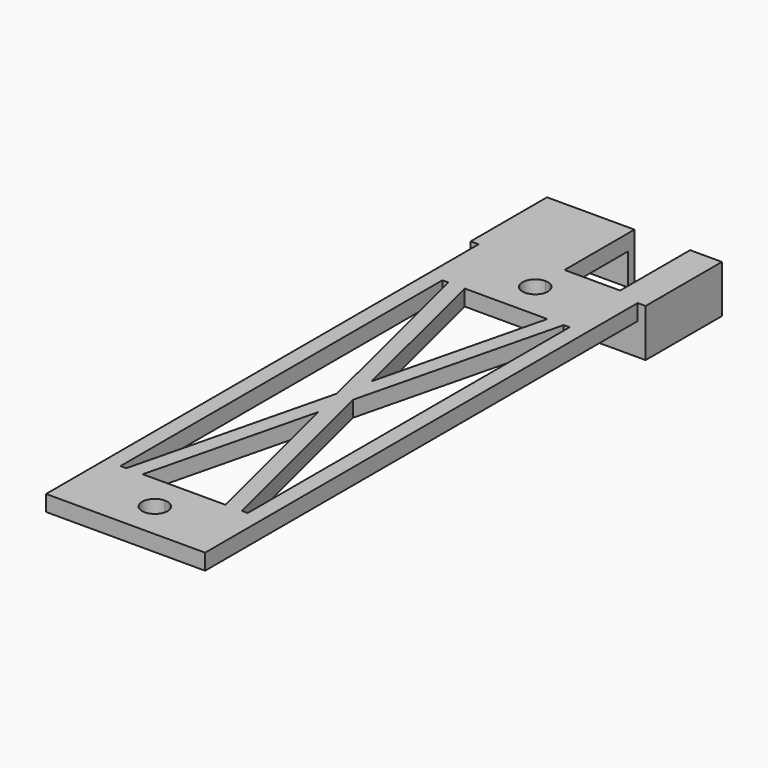
from build123d import *

# Parameters (mm, degrees)
F0_W     = 10
F0_H     = 1
F0_W_2   = 3
F0_H_2   = 10
F1_DEPTH = 2
F2_DEPTH = 4


with BuildPart() as f1:
    # F0 (on Top) → F1 (new body)
    with BuildSketch(Plane.XY):
        with Locations((-11.9701496633, 32.1035342552)):
            Rectangle(F0_W, F0_H)
        with Locations((1.5298503367, 32.1035342552)):
            Rectangle(F0_W_2, F0_H)
        Polygon((-16.9701496633, 31.6035342552), (-16.9701496633, 32.6035342552), (-17.9701496633, 32.6035342552), (-17.9701496633, 20.6035342552), (-16.9701496633, 20.6035342552), (-16.9701496633, 21.6035342552), align=None)
        Polygon((4.0298503367, 32.6035342552), (3.0298503367, 32.6035342552), (3.0298503367, 31.6035342552), (3.0298503367, 21.6035342552), (3.0298503367, 20.6035342552), (4.0298503367, 20.6035342552), align=None)
        Polygon((-6.9701496633, 20.6035342552), (-16.9701496633, 20.6035342552), (-16.9701496633, -47.3964657448), (-6.9701496633, -47.3964657448), (-6.9701496633, -45.3964657448), (-13.9402993266, -45.3964657448), (-14.9701496633, -45.3964657448), (-14.9701496633, -41.212698752), (-14.9701496633, -38.1964657448), (-14.9701496633, 12.4035342552), (-14.9701496633, 15.4197672624), (-14.9701496633, 19.6035342552), (-13.9402993266, 19.6035342552), (-6.9701496633, 19.6035342552), align=None)
        Polygon((3.0298503367, 20.6035342552), (-6.9701496633, 20.6035342552), (-6.9701496633, 19.6035342552), (0, 19.6035342552), (1.0298503367, 19.6035342552), (1.0298503367, 15.4197672624), (1.0298503367, 12.4035342552), (1.0298503367, -38.1964657448), (1.0298503367, -41.212698752), (1.0298503367, -45.3964657448), (0, -45.3964657448), (-6.9701496633, -45.3964657448), (-6.9701496633, -47.3964657448), (3.0298503367, -47.3964657448), align=None)
        with Locations((-11.9701496633, 21.1035342552)):
            Rectangle(F0_W, F0_H)
        Polygon((0.0298503367, 21.6035342552), (-6.9701496633, 21.6035342552), (-6.9701496633, 20.6035342552), (3.0298503367, 20.6035342552), (3.0298503367, 21.6035342552), align=None)
        with Locations((-11.9701496633, 26.6035342552)):
            Rectangle(F0_W, F0_H_2)
        with Locations((1.5298503367, 26.6035342552)):
            Rectangle(F0_W_2, F0_H_2)
        Polygon((-13.197841971, 12.4035342552), (-14.9701496633, 19.6035342552), (-14.9701496633, 15.4197672624), (-14.2276923077, 12.4035342552), align=None)
        Polygon((-12.1679916343, 12.4035342552), (-13.9402993266, 19.6035342552), (-14.9701496633, 19.6035342552), (-13.197841971, 12.4035342552), align=None)
        Polygon((1.0298503367, 19.6035342552), (0, 19.6035342552), (-1.7723076923, 12.4035342552), (-0.7424573556, 12.4035342552), align=None)
        Polygon((0.2873929811, 12.4035342552), (-0.7424573556, 12.4035342552), (-6.455224495, -10.8045822484), (-5.9402993266, -12.8964657448), align=None)
        Polygon((-14.2276923077, -38.1964657448), (-13.197841971, -38.1964657448), (-7.4850748317, -14.9883492412), (-8, -12.8964657448), align=None)
        Polygon((-14.9701496633, -45.3964657448), (-13.9402993266, -45.3964657448), (-12.1679916343, -38.1964657448), (-13.197841971, -38.1964657448), align=None)
        Polygon((-7.4850748317, -14.9883492412), (-6.9701496633, -12.8964657448), (-7.4850748317, -10.8045822484), (-8, -12.8964657448), align=None)
        Polygon((-6.9701496633, -17.0802327376), (-6.9701496633, -12.8964657448), (-7.4850748317, -14.9883492412), align=None)
        Polygon((-5.9402993266, -12.8964657448), (-6.455224495, -10.8045822484), (-6.9701496633, -12.8964657448), (-6.455224495, -14.9883492412), align=None)
        Polygon((-6.455224495, -10.8045822484), (-6.9701496633, -8.712698752), (-6.9701496633, -12.8964657448), align=None)
        Polygon((-6.455224495, -14.9883492412), (-6.9701496633, -12.8964657448), (-6.9701496633, -17.0802327376), align=None)
        Polygon((-6.9701496633, -12.8964657448), (-6.9701496633, -8.712698752), (-7.4850748317, -10.8045822484), align=None)
        Polygon((-0.7424573556, -38.1964657448), (1.0298503367, -45.3964657448), (1.0298503367, -41.212698752), (0.2873929811, -38.1964657448), align=None)
        Polygon((-1.7723076923, -38.1964657448), (0, -45.3964657448), (1.0298503367, -45.3964657448), (-0.7424573556, -38.1964657448), align=None)
        Polygon((1.0298503367, 15.4197672624), (1.0298503367, 19.6035342552), (-0.7424573556, 12.4035342552), (0.2873929811, 12.4035342552), align=None)
        Polygon((-7.4850748317, -10.8045822484), (-13.197841971, 12.4035342552), (-14.2276923077, 12.4035342552), (-8, -12.8964657448), align=None)
        Polygon((-6.9701496633, -8.712698752), (-12.1679916343, 12.4035342552), (-13.197841971, 12.4035342552), (-7.4850748317, -10.8045822484), align=None)
        Polygon((-0.7424573556, 12.4035342552), (-1.7723076923, 12.4035342552), (-6.9701496633, -8.712698752), (-6.455224495, -10.8045822484), align=None)
        with BuildLine():
            Line((0, 19.6035342552), (-6.9701496633, 19.6035342552))
            Line((-6.9701496633, 19.6035342552), (-6.9701496633, 18.6035342552))
            ThreePointArc((-6.9701496633, 18.6035342552), (-5.8387788134, 18.1349051051), (-5.3701496633, 17.0035342552))
            ThreePointArc((-5.3701496633, 17.0035342552), (-5.8387788134, 15.8721634053), (-6.9701496633, 15.4035342552))
            Line((-6.9701496633, 15.4035342552), (-6.9701496633, 12.4035342552))
            Line((-6.9701496633, 12.4035342552), (-1.7723076923, 12.4035342552))
            Line((-1.7723076923, 12.4035342552), (0, 19.6035342552))
        make_face()
        with BuildLine():
            Line((-6.9701496633, 18.6035342552), (-6.9701496633, 19.6035342552))
            Line((-6.9701496633, 19.6035342552), (-13.9402993266, 19.6035342552))
            Line((-13.9402993266, 19.6035342552), (-12.1679916343, 12.4035342552))
            Line((-12.1679916343, 12.4035342552), (-6.9701496633, 12.4035342552))
            Line((-6.9701496633, 12.4035342552), (-6.9701496633, 15.4035342552))
            ThreePointArc((-6.9701496633, 15.4035342552), (-8.5701496633, 17.0035342552), (-6.9701496633, 18.6035342552))
        make_face()
        Polygon((-14.2276923077, 12.4035342552), (-14.9701496633, 15.4197672624), (-14.9701496633, 12.4035342552), align=None)
        Polygon((1.0298503367, 12.4035342552), (1.0298503367, 15.4197672624), (0.2873929811, 12.4035342552), align=None)
        Polygon((-14.9701496633, -41.212698752), (-14.9701496633, -45.3964657448), (-13.197841971, -38.1964657448), (-14.2276923077, -38.1964657448), align=None)
        Polygon((-13.197841971, -38.1964657448), (-12.1679916343, -38.1964657448), (-6.9701496633, -17.0802327376), (-7.4850748317, -14.9883492412), align=None)
        Polygon((-6.455224495, -14.9883492412), (-0.7424573556, -38.1964657448), (0.2873929811, -38.1964657448), (-5.9402993266, -12.8964657448), align=None)
        Polygon((-6.9701496633, -17.0802327376), (-1.7723076923, -38.1964657448), (-0.7424573556, -38.1964657448), (-6.455224495, -14.9883492412), align=None)
        with BuildLine():
            Line((-6.9701496633, -44.3964657448), (-6.9701496633, -45.3964657448))
            Line((-6.9701496633, -45.3964657448), (0, -45.3964657448))
            Line((0, -45.3964657448), (-1.7723076923, -38.1964657448))
            Line((-1.7723076923, -38.1964657448), (-6.9701496633, -38.1964657448))
            Line((-6.9701496633, -38.1964657448), (-6.9701496633, -41.1964657448))
            ThreePointArc((-6.9701496633, -41.1964657448), (-5.8387788134, -41.6650948949), (-5.3701496633, -42.7964657448))
            ThreePointArc((-5.3701496633, -42.7964657448), (-5.8387788134, -43.9278365947), (-6.9701496633, -44.3964657448))
        make_face()
        Polygon((0.2873929811, -38.1964657448), (1.0298503367, -41.212698752), (1.0298503367, -38.1964657448), align=None)
        with BuildLine():
            Line((-13.9402993266, -45.3964657448), (-6.9701496633, -45.3964657448))
            Line((-6.9701496633, -45.3964657448), (-6.9701496633, -44.3964657448))
            ThreePointArc((-6.9701496633, -44.3964657448), (-8.5701496633, -42.7964657448), (-6.9701496633, -41.1964657448))
            Line((-6.9701496633, -41.1964657448), (-6.9701496633, -38.1964657448))
            Line((-6.9701496633, -38.1964657448), (-12.1679916343, -38.1964657448))
            Line((-12.1679916343, -38.1964657448), (-13.9402993266, -45.3964657448))
        make_face()
        Polygon((-14.9701496633, -38.1964657448), (-14.9701496633, -41.212698752), (-14.2276923077, -38.1964657448), align=None)
    extrude(amount=F1_DEPTH)

    # F0 (on Top) → F2 (join)
    with BuildSketch(Plane.XY):
        Polygon((4.0298503367, 32.6035342552), (3.0298503367, 32.6035342552), (3.0298503367, 31.6035342552), (3.0298503367, 21.6035342552), (3.0298503367, 20.6035342552), (4.0298503367, 20.6035342552), align=None)
        with Locations((1.5298503367, 32.1035342552)):
            Rectangle(F0_W_2, F0_H)
        Polygon((0.0298503367, 21.6035342552), (-6.9701496633, 21.6035342552), (-6.9701496633, 20.6035342552), (3.0298503367, 20.6035342552), (3.0298503367, 21.6035342552), align=None)
        with Locations((-11.9701496633, 21.1035342552)):
            Rectangle(F0_W, F0_H)
        Polygon((-16.9701496633, 31.6035342552), (-16.9701496633, 32.6035342552), (-17.9701496633, 32.6035342552), (-17.9701496633, 20.6035342552), (-16.9701496633, 20.6035342552), (-16.9701496633, 21.6035342552), align=None)
        with Locations((-11.9701496633, 32.1035342552)):
            Rectangle(F0_W, F0_H)
    extrude(amount=-F2_DEPTH)


solid = f1.part
